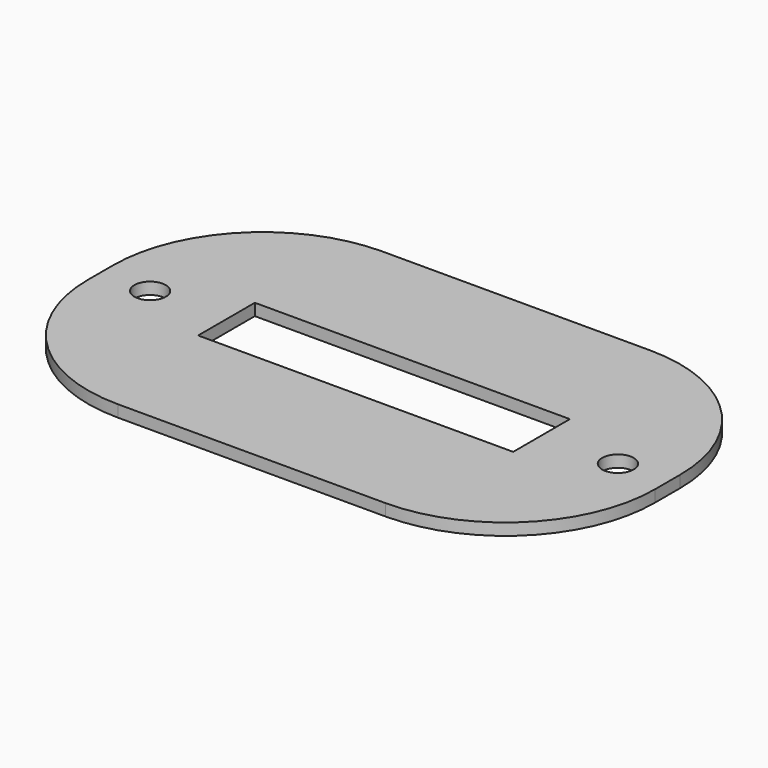
from build123d import *

# Parameters (mm, degrees)
F0_R     = 2
F0_W     = 40
F0_H     = 9
F1_DEPTH = 1.5


with BuildPart() as f1:
    # F0 (on Top) → F1 (new body)
    with BuildSketch(Plane.XY):
        with BuildLine():
            Line((-17, -21), (17, -21))
            ThreePointArc((17, -21), (30.435029, -15.435029), (36, -2))
            Line((36, -2), (36, 2))
            ThreePointArc((36, 2), (30.435029, 15.435029), (17, 21))
            Line((17, 21), (-17, 21))
            ThreePointArc((-17, 21), (-30.435029, 15.435029), (-36, 2))
            Line((-36, 2), (-36, -2))
            ThreePointArc((-36, -2), (-30.435029, -15.435029), (-17, -21))
        make_face()
        with Locations((-29.7, 0)):
            Circle(F0_R, mode=Mode.SUBTRACT)
        Rectangle(F0_W, F0_H, mode=Mode.SUBTRACT)
        with Locations((29.7, 0)):
            Circle(F0_R, mode=Mode.SUBTRACT)
    extrude(amount=F1_DEPTH)


solid = f1.part
